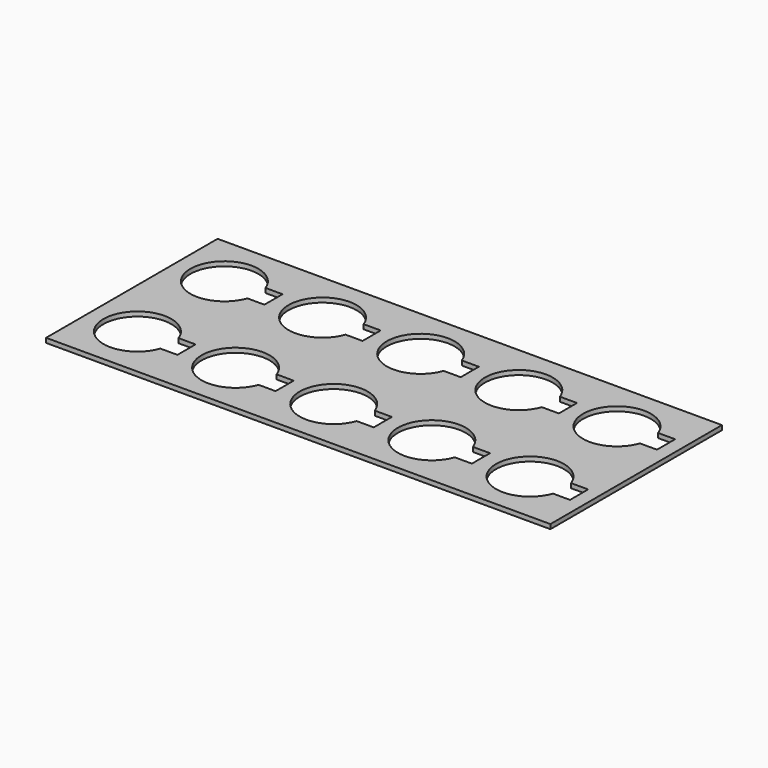
from build123d import *

# Parameters (mm, degrees)
F0_W     = 334
F0_H     = 142
F1_DEPTH = 3


with BuildPart() as f1:
    # F0 (on Top) → F1 (new body)
    with BuildSketch(Plane.XY):
        Rectangle(F0_W, F0_H)
        with BuildLine():
            ThreePointArc((-113.286797, -43.5), (-157, -36), (-113.286797, -28.5))
            Line((-113.286797, -28.5), (-102, -28.5))
            Line((-102, -28.5), (-102, -43.5))
            Line((-102, -43.5), (-113.286797, -43.5))
        make_face(mode=Mode.SUBTRACT)
        with BuildLine():
            ThreePointArc((-48.286797, -43.5), (-92, -36), (-48.286797, -28.5))
            Line((-48.286797, -28.5), (-37, -28.5))
            Line((-37, -28.5), (-37, -43.5))
            Line((-37, -43.5), (-48.286797, -43.5))
        make_face(mode=Mode.SUBTRACT)
        with BuildLine():
            ThreePointArc((16.713203, -43.5), (-27, -36), (16.713203, -28.5))
            Line((16.713203, -28.5), (28, -28.5))
            Line((28, -28.5), (28, -43.5))
            Line((28, -43.5), (16.713203, -43.5))
        make_face(mode=Mode.SUBTRACT)
        with BuildLine():
            ThreePointArc((81.713203, -43.5), (38, -36), (81.713203, -28.5))
            Line((81.713203, -28.5), (93, -28.5))
            Line((93, -28.5), (93, -43.5))
            Line((93, -43.5), (81.713203, -43.5))
        make_face(mode=Mode.SUBTRACT)
        with BuildLine():
            ThreePointArc((146.713203, -43.5), (103, -36), (146.713203, -28.5))
            Line((146.713203, -28.5), (158, -28.5))
            Line((158, -28.5), (158, -43.5))
            Line((158, -43.5), (146.713203, -43.5))
        make_face(mode=Mode.SUBTRACT)
        with BuildLine():
            ThreePointArc((-113.286797, 28.5), (-157, 36), (-113.286797, 43.5))
            Line((-113.286797, 43.5), (-102, 43.5))
            Line((-102, 43.5), (-102, 28.5))
            Line((-102, 28.5), (-113.286797, 28.5))
        make_face(mode=Mode.SUBTRACT)
        with BuildLine():
            ThreePointArc((-48.286797, 28.5), (-92, 36), (-48.286797, 43.5))
            Line((-48.286797, 43.5), (-37, 43.5))
            Line((-37, 43.5), (-37, 28.5))
            Line((-37, 28.5), (-48.286797, 28.5))
        make_face(mode=Mode.SUBTRACT)
        with BuildLine():
            ThreePointArc((16.713203, 28.5), (-27, 36), (16.713203, 43.5))
            Line((16.713203, 43.5), (28, 43.5))
            Line((28, 43.5), (28, 28.5))
            Line((28, 28.5), (16.713203, 28.5))
        make_face(mode=Mode.SUBTRACT)
        with BuildLine():
            ThreePointArc((81.713203, 28.5), (38, 36), (81.713203, 43.5))
            Line((81.713203, 43.5), (93, 43.5))
            Line((93, 43.5), (93, 28.5))
            Line((93, 28.5), (81.713203, 28.5))
        make_face(mode=Mode.SUBTRACT)
        with BuildLine():
            ThreePointArc((146.713203, 28.5), (103, 36), (146.713203, 43.5))
            Line((146.713203, 43.5), (158, 43.5))
            Line((158, 43.5), (158, 28.5))
            Line((158, 28.5), (146.713203, 28.5))
        make_face(mode=Mode.SUBTRACT)
    extrude(amount=F1_DEPTH)


solid = f1.part
